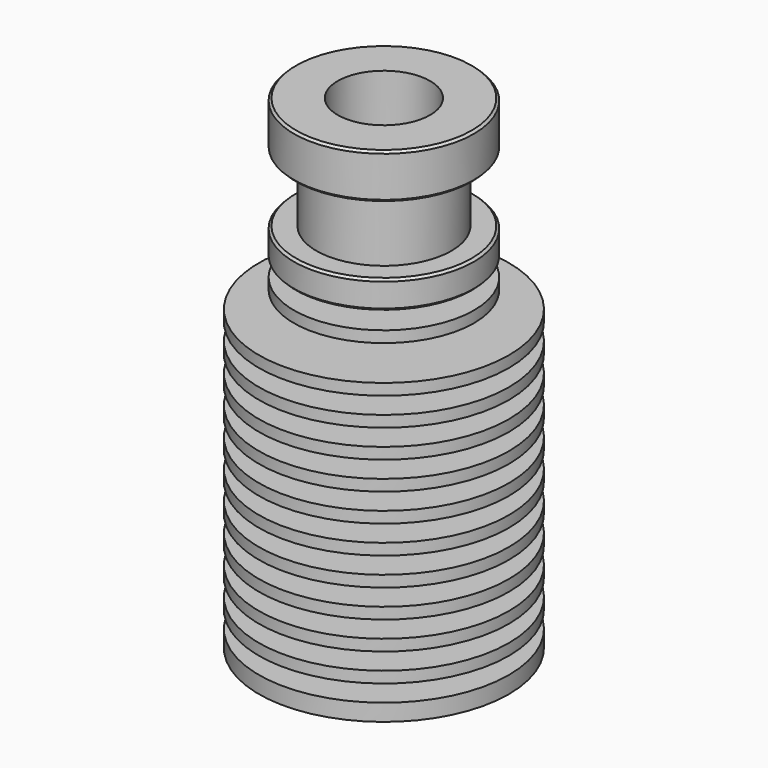
from build123d import *

# Parameters (mm, degrees)
F2_SIZE = 0.2


with BuildPart() as f1:
    # F0 (on Front) → F1 (revolve)
    with BuildSketch(Plane.XZ):
        Polygon((8, 43), (4.1, 43), (4.1, 32.5), (2.1, 31.298279), (2.1, 17.040775), (3, 16.5), (3, 0), (11.1, 0), (11.1, 1.5), (4.1, 1.5), (4.1, 3), (11.1, 3), (11.1, 4), (4.1, 4), (4.1, 5.5), (11.1, 5.5), (11.1, 6.5), (4.1, 6.5), (4.1, 8), (11.1, 8), (11.1, 9), (4.1, 9), (4.1, 10.5), (11.1, 10.5), (11.1, 11.5), (4.1, 11.5), (4.1, 13), (11.1, 13), (11.1, 14), (4.1, 14), (4.1, 15.5), (11.1, 15.5), (11.1, 16.5), (4.1, 16.5), (4.1, 18), (11.1, 18), (11.1, 19), (4.1, 19), (4.1, 20.5), (11.1, 20.5), (11.1, 21.5), (4.1, 21.5), (4.1, 23), (11.1, 23), (11.1, 24), (4.1, 24), (4.1, 25.5), (11.1, 25.5), (11.1, 26.5), (4.1, 26.5), (4.1, 28), (8, 28), (8, 29), (4.1, 29), (4.1, 30.5), (8, 30.5), (8, 33), (6, 33), (6, 39), (8, 39), align=None)
    revolve(axis=Axis((0, 0, 21.5), (0, 0, 1)))

    # F2
    f2_edges = [f1.edges().sort_by_distance(p)[0] for p in [
        (-8, 0, 30.5),
        (-8, 0, 33),
        (-8, 0, 39),
        (-8, 0, 43),
    ]]
    chamfer(f2_edges, length=F2_SIZE)


solid = f1.part
